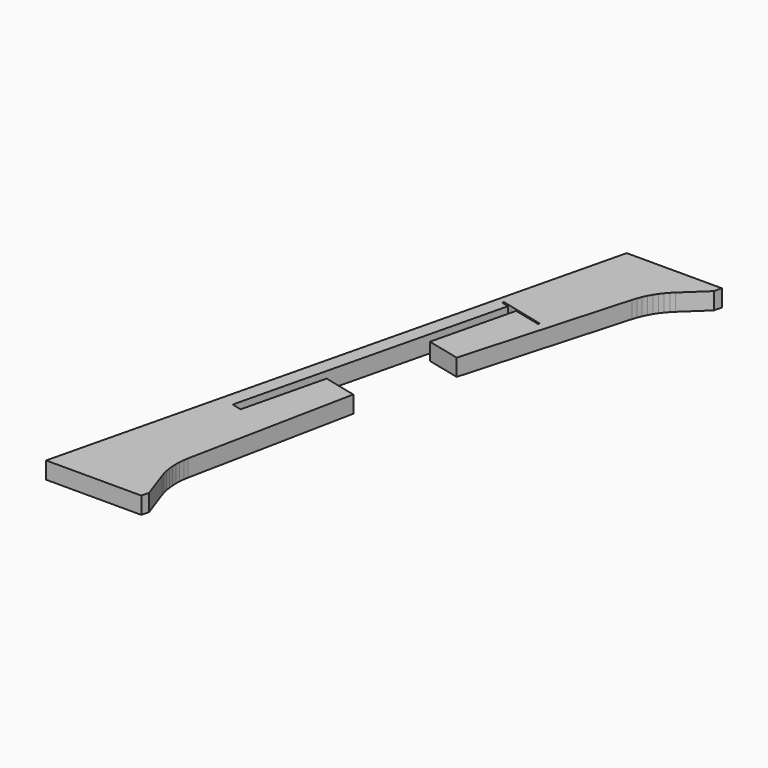
from build123d import *

# Parameters (mm, degrees)
PAD005_DEPTH = 5


with BuildPart() as part:
    # Sketch001 → Pad005 (new body)
    with BuildSketch(Plane.XY):
        with BuildLine():
            add(Edge.make_bspline(
                [(736.799064, -363.130712), (737.32823, -360.908212)],
                knots=[0, 0, 6.47611, 6.47611], degree=1))
            add(Edge.make_bspline(
                [(737.32823, -360.908212), (734.400175, -352.582656)],
                knots=[0, 0, 25.016994, 25.016994], degree=1))
            add(Edge.make_bspline(
                [(734.400175, -352.582656), (733.976842, -351.277379)],
                knots=[0, 0, 3.88973, 3.88973], degree=1))
            add(Edge.make_bspline(
                [(733.976842, -351.277379), (733.659342, -349.972101)],
                knots=[0, 0, 3.807887, 3.807887], degree=1))
            add(Edge.make_bspline(
                [(733.659342, -349.972101), (733.447675, -348.631545)],
                knots=[0, 0, 3.847077, 3.847077], degree=1))
            add(Edge.make_bspline(
                [(733.447675, -348.631545), (733.306564, -347.29099)],
                knots=[0, 0, 3.820995, 3.820995], degree=1))
            add(Edge.make_bspline(
                [(733.306564, -347.29099), (733.236008, -345.950434)],
                knots=[0, 0, 3.80526, 3.80526], degree=1))
            add(Edge.make_bspline(
                [(733.236008, -345.950434), (733.271286, -344.609879)],
                knots=[0, 0, 3.801316, 3.801316], degree=1))
            add(Edge.make_bspline(
                [(733.271286, -344.609879), (733.412397, -343.269323)],
                knots=[0, 0, 3.820995, 3.820995], degree=1))
            add(Edge.make_bspline(
                [(733.412397, -343.269323), (733.624064, -341.928768)],
                knots=[0, 0, 3.847077, 3.847077], degree=1))
            add(Edge.make_bspline(
                [(733.624064, -341.928768), (743.396008, -293.421824)],
                knots=[0, 0, 140.262397, 140.262397], degree=1))
            add(Edge.make_bspline(
                [(733.694619, -291.058213), (743.396008, -293.421824)],
                knots=[0, 0, 28.304417, 28.304417], degree=1))
            add(Edge.make_bspline(
                [(733.694619, -291.058213), (727.803231, -315.364602)],
                knots=[0, 0, 70.894993, 70.894993], degree=1))
            add(Edge.make_bspline(
                [(724.875175, -314.659046), (727.803231, -315.364602)],
                knots=[0, 0, 8.537564, 8.537564], degree=1))
            add(Edge.make_bspline(
                [(724.875175, -314.659046), (743.713508, -236.906826)],
                knots=[0, 0, 226.776807, 226.776807], degree=1))
            add(Edge.make_bspline(
                [(741.561564, -236.377659), (743.713508, -236.906826)],
                knots=[0, 0, 6.28172, 6.28172], degree=1))
            add(Edge.make_bspline(
                [(741.702675, -235.88377), (741.561564, -236.377659)],
                knots=[0, 0, 1.456022, 1.456022], degree=1))
            add(Edge.make_bspline(
                [(754.826008, -239.094048), (741.702675, -235.88377)],
                knots=[0, 0, 38.296867, 38.296867], degree=1))
            add(Edge.make_bspline(
                [(754.684897, -239.552659), (754.826008, -239.094048)],
                knots=[0, 0, 1.360147, 1.360147], degree=1))
            add(Edge.make_bspline(
                [(746.641564, -237.612381), (754.684897, -239.552659)],
                knots=[0, 0, 23.453998, 23.453998], degree=1))
            add(Edge.make_bspline(
                [(740.750175, -261.918769), (746.641564, -237.612381)],
                knots=[0, 0, 70.894993, 70.894993], degree=1))
            add(Edge.make_bspline(
                [(740.750175, -261.918769), (750.486841, -264.282381)],
                knots=[0, 0, 28.401584, 28.401584], degree=1))
            add(Edge.make_bspline(
                [(763.99823, -216.657382), (750.486841, -264.282381)],
                knots=[0, 0, 140.327795, 140.327795], degree=1))
            add(Edge.make_bspline(
                [(763.99823, -216.657382), (764.421563, -215.387382)],
                knots=[0, 0, 3.794733, 3.794733], degree=1))
            add(Edge.make_bspline(
                [(764.421563, -215.387382), (764.915452, -214.117382)],
                knots=[0, 0, 3.862642, 3.862642], degree=1))
            add(Edge.make_bspline(
                [(764.915452, -214.117382), (765.479897, -212.917937)],
                knots=[0, 0, 3.757659, 3.757659], degree=1))
            add(Edge.make_bspline(
                [(765.479897, -212.917937), (766.150174, -211.718493)],
                knots=[0, 0, 3.894868, 3.894868], degree=1))
            add(Edge.make_bspline(
                [(766.150174, -211.718493), (766.891008, -210.589604)],
                knots=[0, 0, 3.827532, 3.827532], degree=1))
            add(Edge.make_bspline(
                [(766.891008, -210.589604), (767.702396, -209.531271)],
                knots=[0, 0, 3.780212, 3.780212], degree=1))
            add(Edge.make_bspline(
                [(767.702396, -209.531271), (768.584341, -208.508215)],
                knots=[0, 0, 3.828838, 3.828838], degree=1))
            add(Edge.make_bspline(
                [(768.584341, -208.508215), (769.536841, -207.555715)],
                knots=[0, 0, 3.818377, 3.818377], degree=1))
            add(Edge.make_bspline(
                [(775.957396, -201.523215), (769.536841, -207.555715)],
                knots=[0, 0, 24.972985, 24.972985], degree=1))
            add(Edge.make_bspline(
                [(775.957396, -201.523215), (776.521841, -199.265438)],
                knots=[0, 0, 6.596969, 6.596969], degree=1))
            add(Edge.make_bspline(
                [(776.521841, -199.265438), (748.511286, -199.265438)],
                knots=[0, 0, 79.4, 79.4], degree=1))
            Line((748.511286, -199.265438), (708.788509, -363.130712))
            add(Edge.make_bspline(
                [(736.799064, -363.130712), (708.788509, -363.130712)],
                knots=[0, 0, 79.4, 79.4], degree=1))
        make_face()
    extrude(amount=PAD005_DEPTH)


solid = part.part
